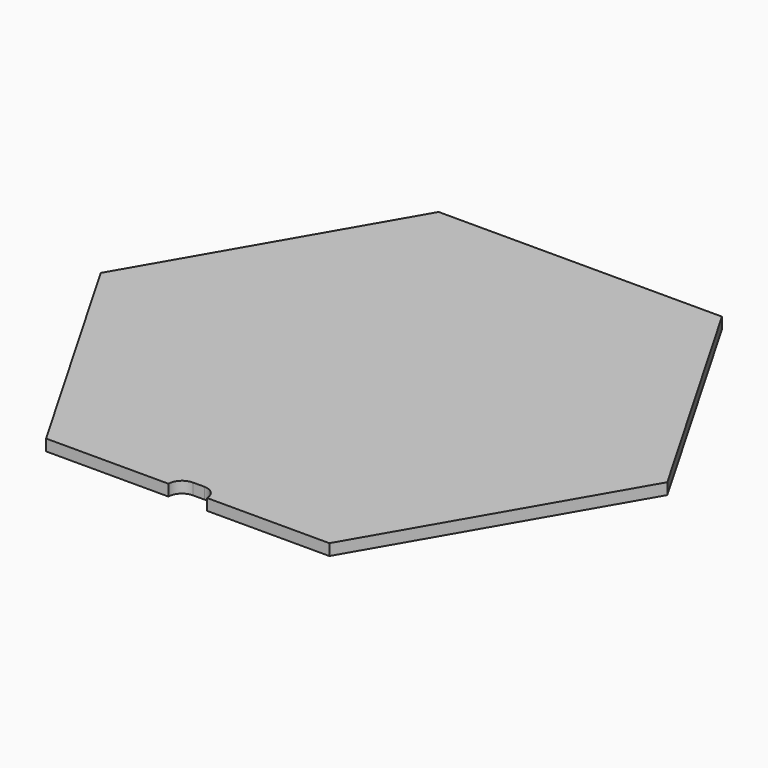
from build123d import *

# Parameters (mm, degrees)
F1_DEPTH = 0.5
F3_DEPTH = 0.501


with BuildPart() as f1:
    # F0 (on Top) → F1 (new body)
    with BuildSketch(Plane.XY):
        Polygon((6.25, -10.825318), (12.5, 0), (6.25, 10.825318), (-6.25, 10.825318), (-12.5, 0), (-6.25, -10.825318), align=None)
    extrude(amount=F1_DEPTH)

    # F2 (on face) → F3 (cut, through all)
    with BuildSketch(Plane.XY.offset(0.5)):
        with BuildLine():
            ThreePointArc((0.85, -10.825318), (0.674264, -10.401053), (0.25, -10.225318))
            Line((0.25, -10.225318), (-0.25, -10.225318))
            ThreePointArc((-0.25, -10.225318), (-0.674264, -10.401053), (-0.85, -10.825318))
            Line((-0.85, -10.825318), (0.85, -10.825318))
        make_face()
    extrude(amount=-F3_DEPTH, mode=Mode.SUBTRACT)


solid = f1.part
